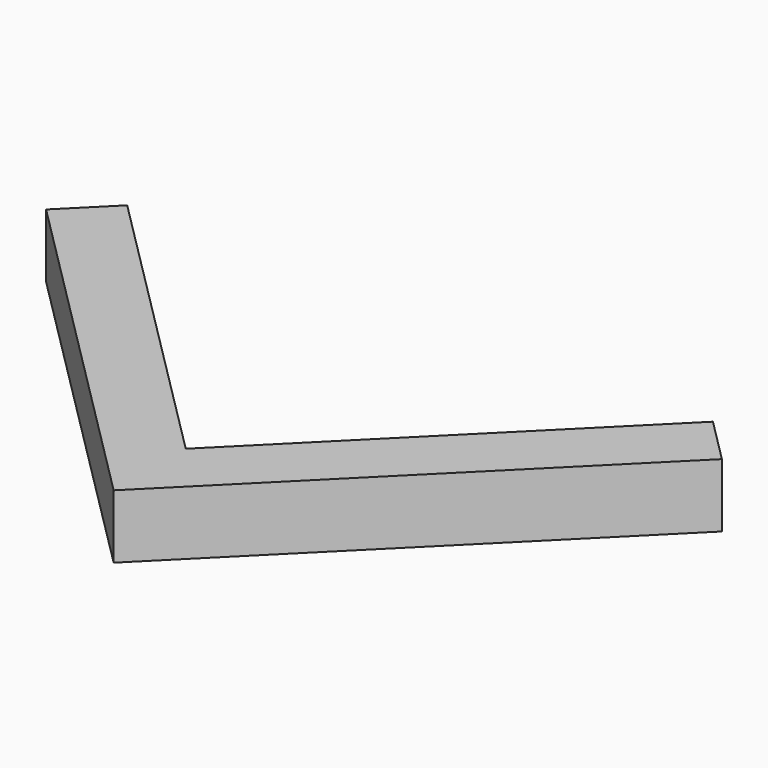
from build123d import *

# Parameters (mm, degrees)
BOX088_W                  = 7.5
BOX088_H                  = 1
BOX088_DEPTH              = 1
BOX087_W                  = 7.5
BOX087_H                  = 1
BOX087_DEPTH              = 1
FUSION017_PLACEMENT_ANGLE = 45


with BuildPart() as cube088:
    # Box088 → Box088 (new body)
    with BuildSketch(Plane.XY):
        with Locations((3.75, 0.5)):
            Rectangle(BOX088_W, BOX088_H)
    extrude(amount=BOX088_DEPTH)


with BuildPart() as obj1:
    # Box087 → Box087 (new body)
    with BuildSketch(Plane(origin=(1, 0, 0), x_dir=(0, 1, 0), z_dir=(0, 0, 1))):
        with Locations((3.75, 0.5)):
            Rectangle(BOX087_W, BOX087_H)
    extrude(amount=BOX087_DEPTH)

    # Fusion017: union Cube088
    add(cube088.part)


with BuildPart() as obj1_1:
    # Fusion017 placement: moved
    add(obj1.part.moved(Location((0, -15, 0))).rotate(Axis((0, -15, 0), (0, 0, 1)), FUSION017_PLACEMENT_ANGLE))


solid = obj1_1.part
